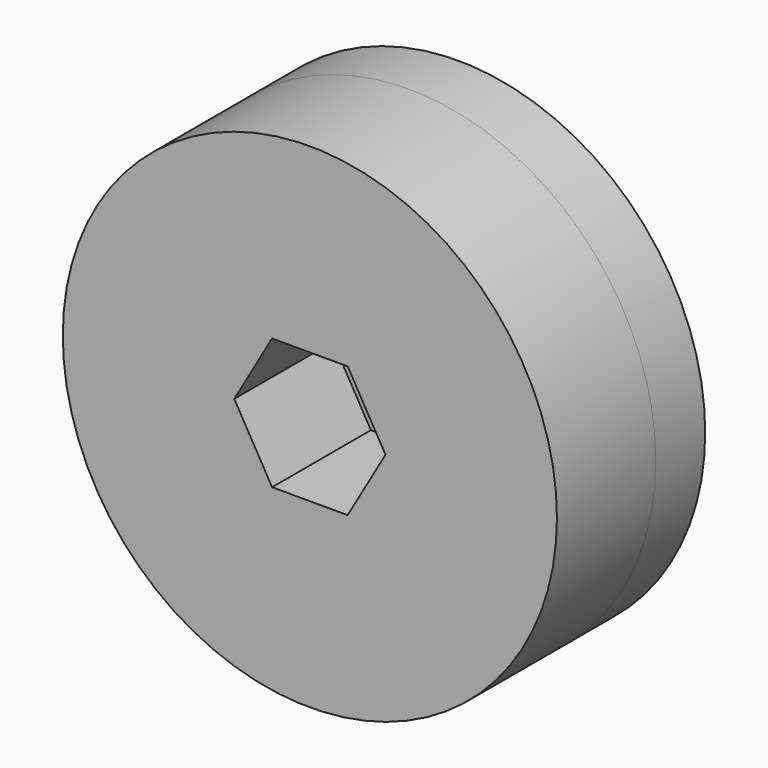
from build123d import *

# Parameters (mm, degrees)
F0_R     = 12.7
F1_DEPTH = 3.175
F2_R     = 12.7
F3_DEPTH = 6.35


with BuildPart() as f1:
    # F0 (on Front) → F1 (new body)
    with BuildSketch(Plane.XZ):
        Circle(F0_R)
    extrude(amount=-F1_DEPTH)

    # F2 (on face) → F3 (join)
    with BuildSketch(Plane.XZ):
        Circle(F2_R)
        Polygon((-3.886145, 0), (-1.943072, 3.3655), (1.943072, 3.3655), (3.886145, 0), (1.943072, -3.3655), (-1.943072, -3.3655), align=None, mode=Mode.SUBTRACT)
    extrude(amount=F3_DEPTH)


solid = f1.part
